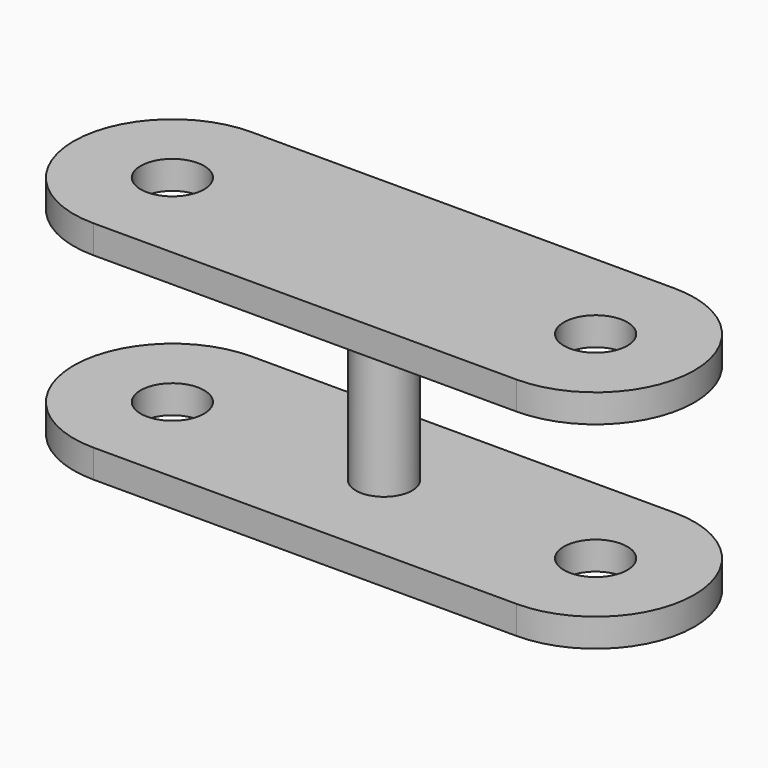
from build123d import *

# Parameters (mm, degrees)
F0_R     = 10
F1_DEPTH = 40
F2_DEPTH = 30


with BuildPart() as f1:
    # F0 (on Top) → F1 (new body, symmetric)
    with BuildSketch(Plane.XY):
        with BuildLine():
            Line((75, 35), (-75, 35))
            ThreePointArc((-75, 35), (-110, 0), (-75, -35))
            Line((-75, -35), (75, -35))
            ThreePointArc((75, -35), (110, 0), (75, 35))
        make_face()
        with BuildLine():
            ThreePointArc((-42.5, 0), (-75, -32.5), (-107.5, 0))
            Line((-107.5, 0), (-86.25, 0))
            ThreePointArc((-86.25, 0), (-75, 11.25), (-63.75, 0))
            Line((-63.75, 0), (-42.5, 0))
        make_face(mode=Mode.SUBTRACT)
        with BuildLine():
            ThreePointArc((107.5, 0), (75, -32.5), (42.5, 0))
            Line((42.5, 0), (63.75, 0))
            ThreePointArc((63.75, 0), (75, 11.25), (86.25, 0))
            Line((86.25, 0), (107.5, 0))
        make_face(mode=Mode.SUBTRACT)
        Circle(F0_R, mode=Mode.SUBTRACT)
        with BuildLine():
            Line((-86.25, 0), (-107.5, 0))
            ThreePointArc((-107.5, 0), (-75, -32.5), (-42.5, 0))
            Line((-42.5, 0), (-63.75, 0))
            ThreePointArc((-63.75, 0), (-75, -11.25), (-86.25, 0))
        make_face()
        with BuildLine():
            Line((63.75, 0), (42.5, 0))
            ThreePointArc((42.5, 0), (75, -32.5), (107.5, 0))
            Line((107.5, 0), (86.25, 0))
            ThreePointArc((86.25, 0), (75, -11.25), (63.75, 0))
        make_face()
        Circle(F0_R)
    extrude(amount=F1_DEPTH, both=True)

    # F0 (on Top) → F2 (cut, symmetric)
    with BuildSketch(Plane.XY):
        with BuildLine():
            Line((75, 35), (-75, 35))
            ThreePointArc((-75, 35), (-110, 0), (-75, -35))
            Line((-75, -35), (75, -35))
            ThreePointArc((75, -35), (110, 0), (75, 35))
        make_face()
        with BuildLine():
            ThreePointArc((-42.5, 0), (-75, -32.5), (-107.5, 0))
            Line((-107.5, 0), (-86.25, 0))
            ThreePointArc((-86.25, 0), (-75, 11.25), (-63.75, 0))
            Line((-63.75, 0), (-42.5, 0))
        make_face(mode=Mode.SUBTRACT)
        with BuildLine():
            ThreePointArc((107.5, 0), (75, -32.5), (42.5, 0))
            Line((42.5, 0), (63.75, 0))
            ThreePointArc((63.75, 0), (75, 11.25), (86.25, 0))
            Line((86.25, 0), (107.5, 0))
        make_face(mode=Mode.SUBTRACT)
        Circle(F0_R, mode=Mode.SUBTRACT)
        with BuildLine():
            Line((-86.25, 0), (-107.5, 0))
            ThreePointArc((-107.5, 0), (-75, -32.5), (-42.5, 0))
            Line((-42.5, 0), (-63.75, 0))
            ThreePointArc((-63.75, 0), (-75, -11.25), (-86.25, 0))
        make_face()
        with BuildLine():
            Line((63.75, 0), (42.5, 0))
            ThreePointArc((42.5, 0), (75, -32.5), (107.5, 0))
            Line((107.5, 0), (86.25, 0))
            ThreePointArc((86.25, 0), (75, -11.25), (63.75, 0))
        make_face()
    extrude(amount=F2_DEPTH, both=True, mode=Mode.SUBTRACT)


solid = f1.part
